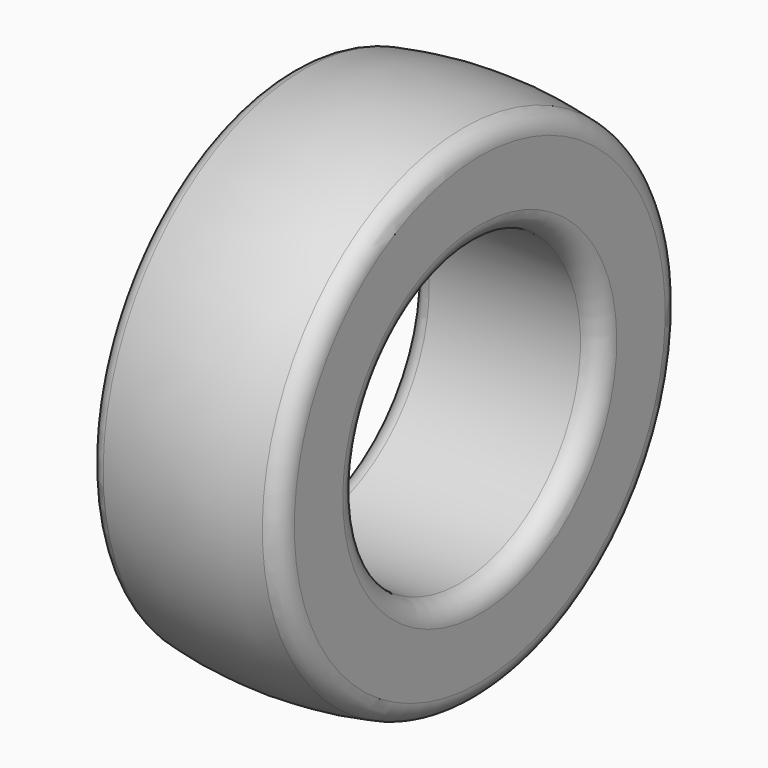
from build123d import *


with BuildPart() as f1:
    # F0 (on Front) → F1 (revolve)
    with BuildSketch(Plane.XZ):
        with BuildLine():
            ThreePointArc((1028.7, -711.2), (1043.578976, -747.121024), (1079.5, -762))
            Line((1079.5, -762), (1460.5, -762))
            ThreePointArc((1460.5, -762), (1496.421024, -747.121024), (1511.3, -711.2))
            Line((1511.3, -711.2), (1511.3, -558.8))
            ThreePointArc((1511.3, -558.8), (1499.806341, -526.618459), (1470.526316, -508.999267))
            ThreePointArc((1470.526316, -508.999267), (1270, -489.013924), (1069.473684, -508.999267))
            ThreePointArc((1069.473684, -508.999267), (1040.193659, -526.618459), (1028.7, -558.8))
            Line((1028.7, -558.8), (1028.7, -711.2))
        make_face()
    revolve(axis=Axis((345.325853, 0, -1143), (1, 0, 0)))


solid = f1.part
